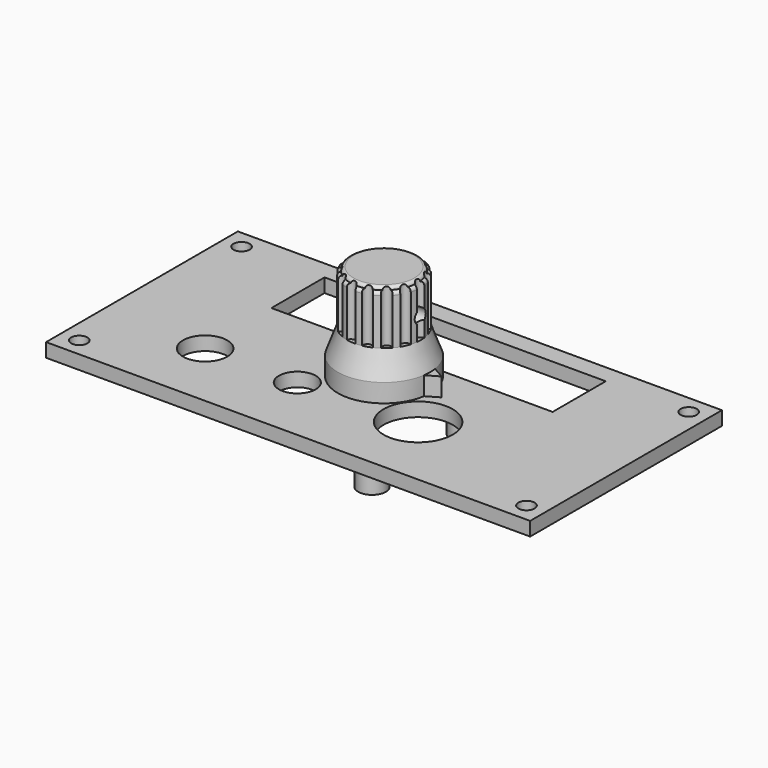
from build123d import *

# Parameters (mm, degrees)
SKETCH010_W        = 105
SKETCH010_H        = 52
SKETCH010_R        = 7.5
SKETCH010_R_2      = 1.75
SKETCH010_R_3      = 4.8
SKETCH010_R_4      = 4
SKETCH010_W_2      = 61
SKETCH010_H_2      = 14.4
PAD007_DEPTH       = 3
SKETCH085_R        = 3
PAD054_DEPTH       = 4.3
SKETCH086_R        = 1.4
POCKET007_DEPTH    = 5
SKETCH090_R        = 1.7
POCKET008_DEPTH    = 2
SKETCH093_R        = 1.5
PAD055_DEPTH       = 15
SKETCH092_R        = 1
POCKET009_DEPTH    = 11.4
POLARPATTERN_COUNT = 15
PAD056_DEPTH       = 4


with BuildPart() as pocket008:
    # Sketch010 → Pad007 (new body)
    with BuildSketch(Plane.XY):
        Rectangle(SKETCH010_W, SKETCH010_H)
        with Locations((15, -9.5)):
            Circle(SKETCH010_R, mode=Mode.SUBTRACT)
        with Locations((-48.5, 22)):
            Circle(SKETCH010_R_2, mode=Mode.SUBTRACT)
        with Locations((48.5, 22)):
            Circle(SKETCH010_R_2, mode=Mode.SUBTRACT)
        with Locations((-48.5, -22)):
            Circle(SKETCH010_R_2, mode=Mode.SUBTRACT)
        with Locations((48.5, -22)):
            Circle(SKETCH010_R_2, mode=Mode.SUBTRACT)
        with Locations((-30, -11)):
            Circle(SKETCH010_R_3, mode=Mode.SUBTRACT)
        with Locations((-10, -11)):
            Circle(SKETCH010_R_4, mode=Mode.SUBTRACT)
        with Locations((0, 14.8)):
            Rectangle(SKETCH010_W_2, SKETCH010_H_2, mode=Mode.SUBTRACT)
    extrude(amount=-PAD007_DEPTH)

    # Sketch085 → Pad054 (new body)
    with BuildSketch(Plane(origin=(0, 0, -3), x_dir=(1, 0, 0), z_dir=(0, 0, -1))):
        with Locations((-39.54, -10.62)):
            Circle(SKETCH085_R)
        with Locations((-39.54, -19.67)):
            Circle(SKETCH085_R)
        with Locations((36.53, -19.67)):
            Circle(SKETCH085_R)
        with Locations((36.53, -10.62)):
            Circle(SKETCH085_R)
        with Locations((15, 22)):
            Circle(SKETCH085_R)
        with Locations((15, -3)):
            Circle(SKETCH085_R)
    extrude(amount=PAD054_DEPTH)

    # Sketch086 → Pocket007 (cut)
    with BuildSketch(Plane(origin=(0, 0, -7.3), x_dir=(1, 0, 0), z_dir=(0, 0, -1))):
        with Locations((15, 22)):
            Circle(SKETCH086_R)
        with Locations((15, -3)):
            Circle(SKETCH086_R)
        with Locations((36.53, -10.62)):
            Circle(SKETCH086_R)
        with Locations((36.53, -19.67)):
            Circle(SKETCH086_R)
        with Locations((-39.54, -10.62)):
            Circle(SKETCH086_R)
        with Locations((-39.54, -19.67)):
            Circle(SKETCH086_R)
    extrude(amount=-POCKET007_DEPTH, mode=Mode.SUBTRACT)

    # Sketch090 → Pocket008 (cut)
    with BuildSketch(Plane(origin=(0, 0, -3), x_dir=(1, 0, 0), z_dir=(0, 0, -1))):
        with Locations((-39, 11)):
            Circle(SKETCH090_R)
    extrude(amount=-POCKET008_DEPTH, mode=Mode.SUBTRACT)


with BuildPart() as obj1:
    # Sketch093 → Pad055 (new body, symmetric)
    with BuildSketch(Plane.YZ):
        with Locations((0, 14)):
            Circle(SKETCH093_R)
    extrude(amount=PAD055_DEPTH, both=True)


with BuildPart() as knob_selector:
    # Sketch091 → Revolution (revolve)
    with BuildSketch(Plane.XZ):
        with BuildLine():
            Line((8.5, 0), (10, 0))
            Line((10, 0), (10, 4))
            Line((10, 4), (8, 9.5))
            Line((8, 9.5), (8, 19.5))
            ThreePointArc((8, 19.5), (7.794975, 19.994974), (7.300002, 20.2))
            ThreePointArc((7.300002, 20.2), (7.094977, 20.694974), (6.600003, 20.9))
            Line((6.600003, 20.9), (0, 20.9))
            Line((0, 20.9), (0, 19.5))
            Line((0, 19.5), (0, 17))
            Line((0, 17), (3.1, 17))
            Line((3.1, 17), (3.1, 6))
            Line((3.1, 6), (8.5, 6))
            Line((8.5, 6), (8.5, 0))
        make_face()
    revolve(axis=Axis((0, 0, 0), (0, 0, 1)))

    # Sketch092 → Pocket009 (cut)
    with BuildSketch(Plane(origin=(0, 0, 20.9), x_dir=(-1, 0, 0), z_dir=(0, 0, 1))):
        with Locations((-8, 0)):
            Circle(SKETCH092_R)
    pocket009 = extrude(amount=-POCKET009_DEPTH, mode=Mode.SUBTRACT)

    # PolarPattern: Pocket009 ×15 about axis
    polarpattern_axis = Axis((0, 0, 20.9), (0, 0, 1))
    for i in range(1, POLARPATTERN_COUNT):
        add(pocket009.rotate(polarpattern_axis, i * 360 / POLARPATTERN_COUNT), mode=Mode.SUBTRACT)

    # Cut: cut obj1
    add(obj1.part, mode=Mode.SUBTRACT)

    # Sketch094 → Pad056 (new body)
    with BuildSketch(Plane(origin=(0, 0, 0), x_dir=(1, 0, 0), z_dir=(0, 0, -1))):
        Polygon((9.88686, 1.5), (9.88686, -1.5), (12.484936, 0), align=None)
    extrude(amount=-PAD056_DEPTH)


solid = Compound([pocket008.part, knob_selector.part])
